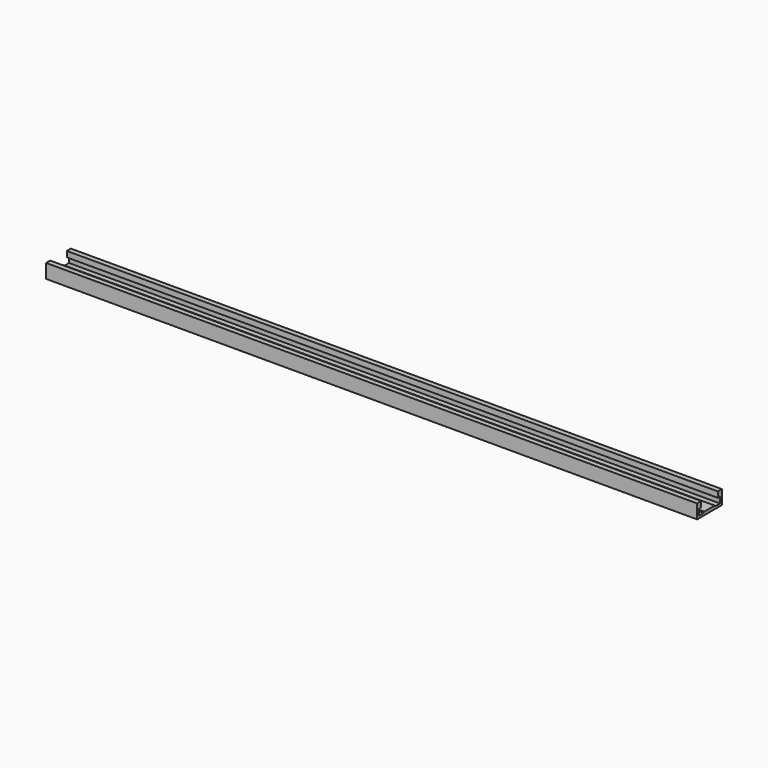
from build123d import *

# Parameters (mm, degrees)
F1_DEPTH = 600


with BuildPart() as f1:
    # F0 (on Right) → F1 (new body)
    with BuildSketch(Plane.YZ):
        Polygon((-14.3, 0), (0, 0), (14.3, 0), (14.3, 13), (9.6, 13), (9.6, 7.8), (12.1, 7.8), (12.1, 2.2), (6.8, 2.2), (6, 3), (0, 3), (-6, 3), (-6.8, 2.2), (-12.1, 2.2), (-12.1, 7.8), (-9.6, 7.8), (-9.6, 13), (-14.3, 13), align=None)
    extrude(amount=-F1_DEPTH)


solid = f1.part
